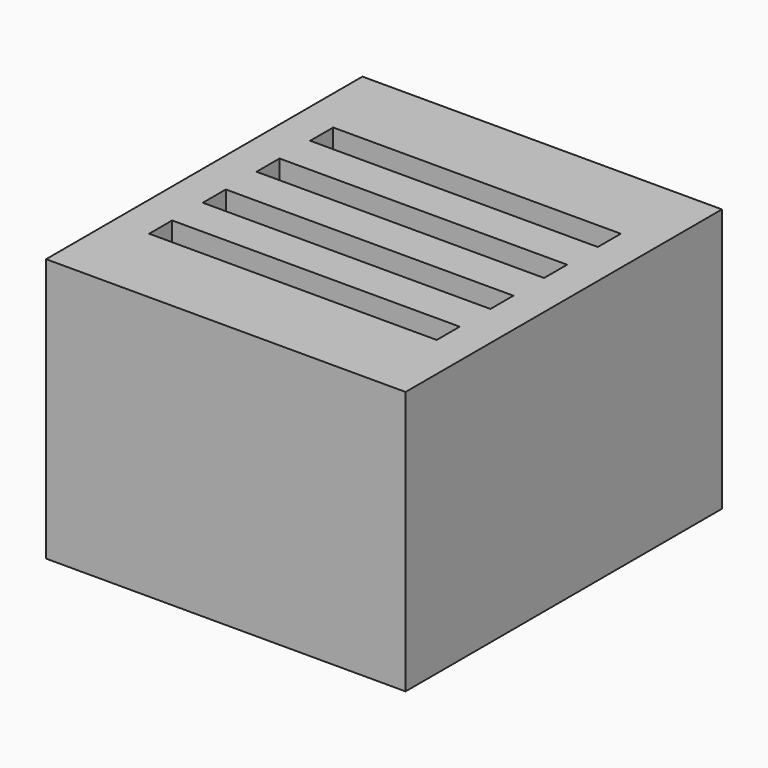
from build123d import *

# Parameters (mm, degrees)
BOX002_W     = 24
BOX002_H     = 2.4
BOX002_DEPTH = 20
BOX003_W     = 24
BOX003_H     = 2.4
BOX003_DEPTH = 20
BOX004_W     = 24
BOX004_H     = 2.4
BOX004_DEPTH = 20
BOX001_W     = 24
BOX001_H     = 2.4
BOX001_DEPTH = 20
BOX_W        = 30
BOX_H        = 33
BOX_DEPTH    = 22


with BuildPart() as box002:
    # Box002 → Box002 (new body)
    with BuildSketch(Plane(origin=(0, 5.6, 0), x_dir=(1, 0, 0), z_dir=(0, 0, 1))):
        with Locations((12, 1.2)):
            Rectangle(BOX002_W, BOX002_H)
    extrude(amount=BOX002_DEPTH)


with BuildPart() as box003:
    # Box003 → Box003 (new body)
    with BuildSketch(Plane(origin=(0, 11.2, 0), x_dir=(1, 0, 0), z_dir=(0, 0, 1))):
        with Locations((12, 1.2)):
            Rectangle(BOX003_W, BOX003_H)
    extrude(amount=BOX003_DEPTH)


with BuildPart() as box004:
    # Box004 → Box004 (new body)
    with BuildSketch(Plane(origin=(0, 16.8, 0), x_dir=(1, 0, 0), z_dir=(0, 0, 1))):
        with Locations((12, 1.2)):
            Rectangle(BOX004_W, BOX004_H)
    extrude(amount=BOX004_DEPTH)


with BuildPart() as ranuras:
    # Box001 → Box001 (new body)
    with BuildSketch(Plane.XY):
        with Locations((12, 1.2)):
            Rectangle(BOX001_W, BOX001_H)
    extrude(amount=BOX001_DEPTH)

    # Fusion: union Box002, Box003, Box004
    add(box002.part)
    add(box003.part)
    add(box004.part)


with BuildPart() as ranuras_1:
    # Fusion placement: moved
    add(ranuras.part.moved(Location((3, 7, 2))))


with BuildPart() as porta_sd:
    # Box → Box (new body)
    with BuildSketch(Plane.XY):
        with Locations((15, 16.5)):
            Rectangle(BOX_W, BOX_H)
    extrude(amount=BOX_DEPTH)

    # Cut: cut Ranuras
    add(ranuras_1.part, mode=Mode.SUBTRACT)


solid = porta_sd.part
